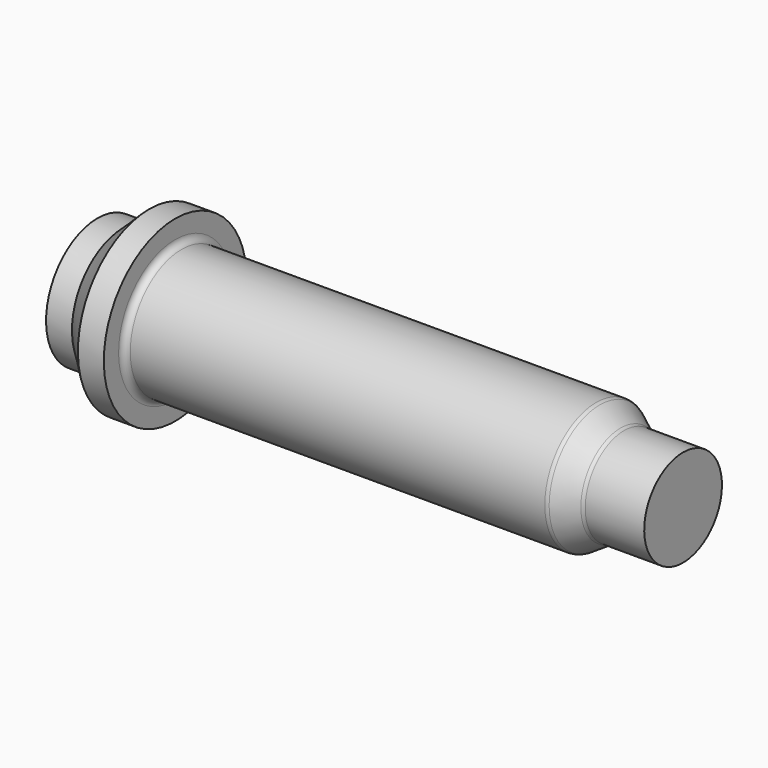
from build123d import *

# Parameters (mm, degrees)
F2_R     = 5.26415
F3_DEPTH = 25.4
F5_R     = 2.54
F6_R     = 2.54


with BuildPart() as f1:
    # F0 (on Front) → F1 (revolve)
    with BuildSketch(Plane.XZ):
        Polygon((-229.616, 0), (0, 0), (0, 19.05), (-23.876, 19.05), (-33.311927, 25.20315), (-199.136, 25.20315), (-199.136, 34.98215), (-209.296, 34.98215), (-219.456, 25.20315), (-229.616, 25.20315), align=None)
    revolve(axis=Axis((-114.808, 0, 0), (-1, 0, 0)))

    # F2 (on face) → F3 (cut)
    with BuildSketch(Plane(origin=(-229.616, 0, 0), x_dir=(0, -1, 0), z_dir=(-1, 0, 0))):
        Circle(F2_R)
    extrude(amount=-F3_DEPTH, mode=Mode.SUBTRACT)

    # F5
    f5_edges = [f1.edges().sort_by_distance(p)[0] for p in [
        (-23.876, 0, -19.05),
        (-33.311927, 0, -25.20315),
    ]]
    fillet(f5_edges, radius=F5_R)

    # F6
    f6_edges = [f1.edges().sort_by_distance(p)[0] for p in [
        (-199.136, 0, -25.20315),
    ]]
    fillet(f6_edges, radius=F6_R)


solid = f1.part
